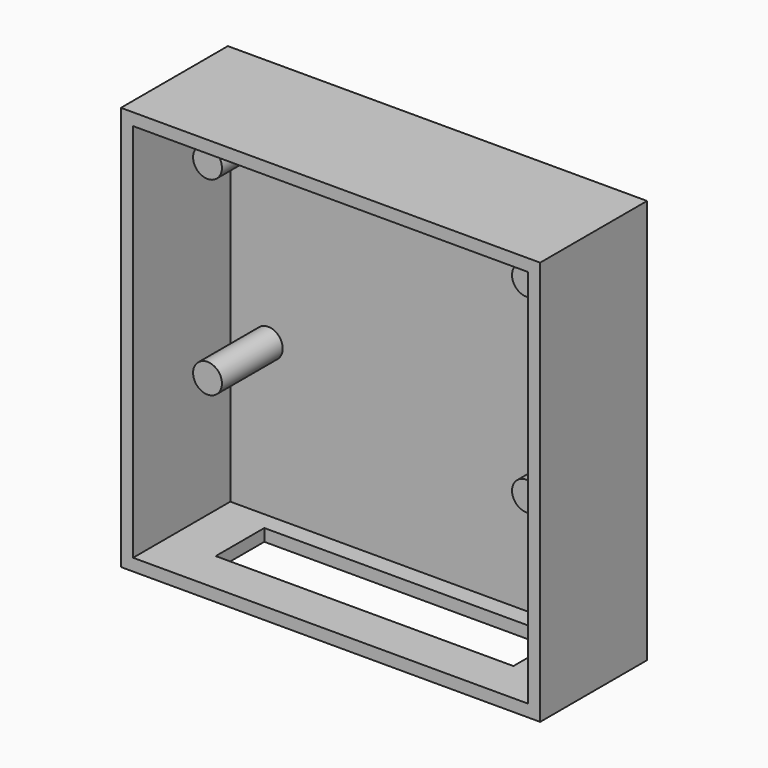
from build123d import *

# Parameters (mm, degrees)
F0_W     = 27.6
F0_H     = 26.62
F1_DEPTH = 0.8
F2_W     = 27.6
F2_H     = 26.62
F2_W_2   = 26
F2_H_2   = 25.02
F3_DEPTH = 8
F4_R     = 0.95
F5_DEPTH = 5
F6_W     = 19.6
F6_H     = 4
F7_DEPTH = 1.7


with BuildPart() as f1:
    # F0 (on Front) → F1 (new body)
    with BuildSketch(Plane.XZ):
        Rectangle(F0_W, F0_H)
    extrude(amount=F1_DEPTH)

    # F2 (on face) → F3 (join)
    with BuildSketch(Plane.XZ.offset(0.8)):
        Rectangle(F2_W, F2_H)
        Rectangle(F2_W_2, F2_H_2, mode=Mode.SUBTRACT)
    extrude(amount=F3_DEPTH)

    # F4 (on face) → F5 (join)
    with BuildSketch(Plane.XZ.offset(0.8)):
        with Locations((-10.5, 9.99)):
            Circle(F4_R)
        with Locations((-10.5, -2.51)):
            Circle(F4_R)
        with Locations((10.5, 9.99)):
            Circle(F4_R)
        with Locations((10.5, -2.51)):
            Circle(F4_R)
    extrude(amount=F5_DEPTH)

    # F6 (on face) → F7 (cut)
    with BuildSketch(Plane(origin=(0, 0, -13.31), x_dir=(1, 0, 0), z_dir=(0, 0, -1))):
        with Locations((0, 4)):
            Rectangle(F6_W, F6_H)
    extrude(amount=-F7_DEPTH, mode=Mode.SUBTRACT)


solid = f1.part
